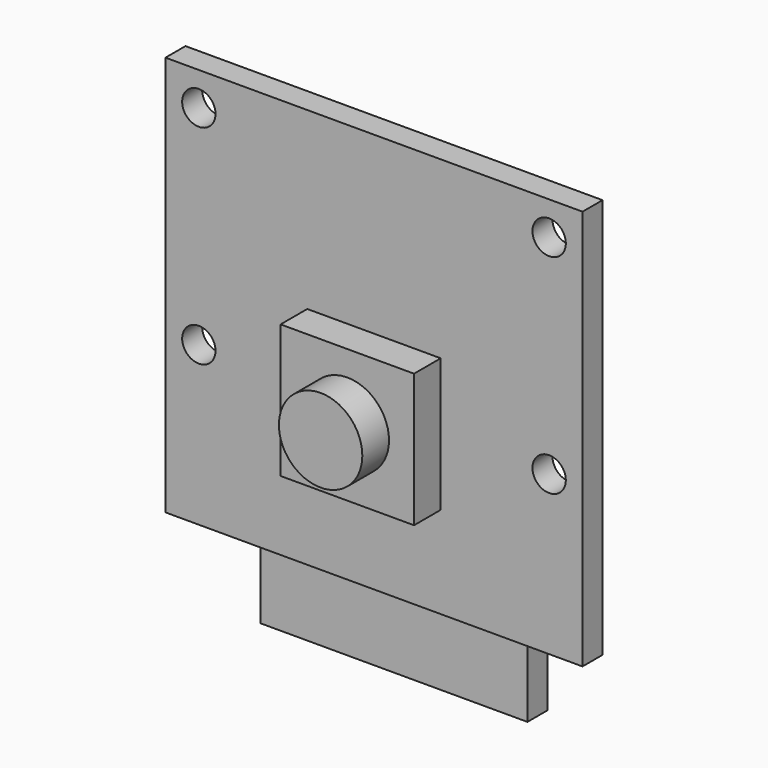
from build123d import *

# Parameters (mm, degrees)
F0_W      = 25
F0_H      = 24
F1_DEPTH  = 1.5
F2_R      = 1
F3_DEPTH  = 1.501
F4_W      = 8
F4_H      = 8
F4_R      = 2.5
F5_DEPTH  = 2
F5_FACE_R = 2.5
F6_DEPTH  = 4
F8_DEPTH  = 1.5


with BuildPart() as f1:
    # F0 (on Front) → F1 (new body)
    with BuildSketch(Plane.XZ):
        with Locations((12.5, 12)):
            Rectangle(F0_W, F0_H)
    extrude(amount=F1_DEPTH)

    # F2 (on face) → F3 (cut, through all)
    with BuildSketch(Plane.XZ.offset(1.5)):
        with Locations((2, 22)):
            Circle(F2_R)
        with Locations((2, 9.5)):
            Circle(F2_R)
        with Locations((23, 22)):
            Circle(F2_R)
        with Locations((23, 9.5)):
            Circle(F2_R)
    extrude(amount=-F3_DEPTH, mode=Mode.SUBTRACT)

    # F4 (on face) → F5 (join)
    with BuildSketch(Plane.XZ.offset(1.5)):
        with Locations((12.5, 9.5)):
            Rectangle(F4_W, F4_H)
        with Locations((12.5, 9.5)):
            Circle(F4_R, mode=Mode.SUBTRACT)
    extrude(amount=F5_DEPTH)

    # F5_face (on face) → F6 (join)
    with BuildSketch(Plane(origin=(12.5, -1.5, 9.5), x_dir=(1, 0, 0), z_dir=(0, -1, 0))):
        Circle(F5_FACE_R)
    extrude(amount=F6_DEPTH)

    # F7 (on face) → F8 (join)
    with BuildSketch(Plane(origin=(0, 0, 0), x_dir=(-1, 0, 0), z_dir=(0, 1, 0))):
        Polygon((-2, 0), (-2, 5), (-23, 5), (-23, 0), (-20.5, 0), (-20.5, -5), (-4.5, -5), (-4.5, 0), align=None)
    extrude(amount=F8_DEPTH)


solid = f1.part
